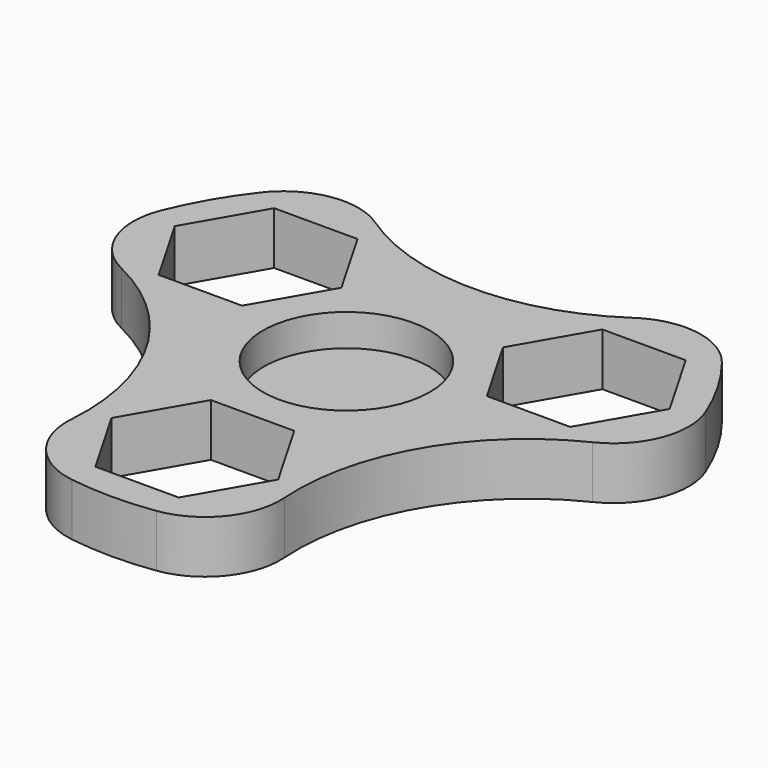
from build123d import *

# Parameters (mm, degrees)
F0_R     = 11.1
F1_DEPTH = 7
F2_R     = 10
F3_R     = 11
F3_R_2   = 3.9
F4_DEPTH = 2.8
F5_DEPTH = 4
F6_R     = 5.2
F6_R_2   = 3.9
F7_DEPTH = 0.75


with BuildPart() as f1:
    # F0 (on Top) → F1 (new body)
    with BuildSketch(Plane.XY):
        with BuildLine():
            ThreePointArc((15.7033939043, -35.6987873728), (18.1865334795, -10.5), (38.7677537013, 4.2498556396))
            ThreePointArc((38.7677537013, 4.2498556396), (33.7749907476, 19.5), (23.064359797, 31.4489317332))
            ThreePointArc((23.064359797, 31.4489317332), (0, 21), (-23.064359797, 31.4489317332))
            ThreePointArc((-23.064359797, 31.4489317332), (-33.7749907476, 19.5), (-38.7677537013, 4.2498556396))
            ThreePointArc((-38.7677537013, 4.2498556396), (-18.1865334795, -10.5), (-15.7033939043, -35.6987873728))
            ThreePointArc((-15.7033939043, -35.6987873728), (0, -39), (15.7033939043, -35.6987873728))
        make_face()
        Polygon((-5.5425625842, -15.6), (5.5425625842, -15.6), (11.0851251684, -25.2), (5.5425625842, -34.8), (-5.5425625842, -34.8), (-11.0851251684, -25.2), align=None, mode=Mode.SUBTRACT)
        Polygon((-27.3664027596, 3), (-32.9089653438, 12.6), (-27.3664027596, 22.2), (-16.2812775911, 22.2), (-10.7387150069, 12.6), (-16.2812775911, 3), align=None, mode=Mode.SUBTRACT)
        Circle(F0_R, mode=Mode.SUBTRACT)
        Polygon((16.2812775911, 22.2), (27.3664027596, 22.2), (32.9089653438, 12.6), (27.3664027596, 3), (16.2812775911, 3), (10.7387150069, 12.6), align=None, mode=Mode.SUBTRACT)
    extrude(amount=F1_DEPTH)

    # F2
    f2_edges = [f1.edges().sort_by_distance(p)[0] for p in [
        (-38.767754, 4.249856, 3.5),
        (-23.06436, 31.448932, 3.5),
        (23.06436, 31.448932, 3.5),
        (38.767754, 4.249856, 3.5),
        (15.703394, -35.698787, 3.5),
        (-15.703394, -35.698787, 3.5),
    ]]
    fillet(f2_edges, radius=F2_R)


with BuildPart() as f4:
    # F3 (on Top) → F4 (new body)
    with BuildSketch(Plane.XY):
        Circle(F3_R)
        Circle(F3_R_2, mode=Mode.SUBTRACT)
        Circle(F3_R_2)
    extrude(amount=F4_DEPTH)

    # F3 (on Top) → F5 (join)
    with BuildSketch(Plane.XY):
        Circle(F3_R_2)
    extrude(amount=-F5_DEPTH)

    # F6 (on face) → F7 (join)
    with BuildSketch(Plane.XY):
        Circle(F6_R)
        Circle(F6_R_2, mode=Mode.SUBTRACT)
    extrude(amount=-F7_DEPTH)


solid = Compound([f1.part, f4.part])
